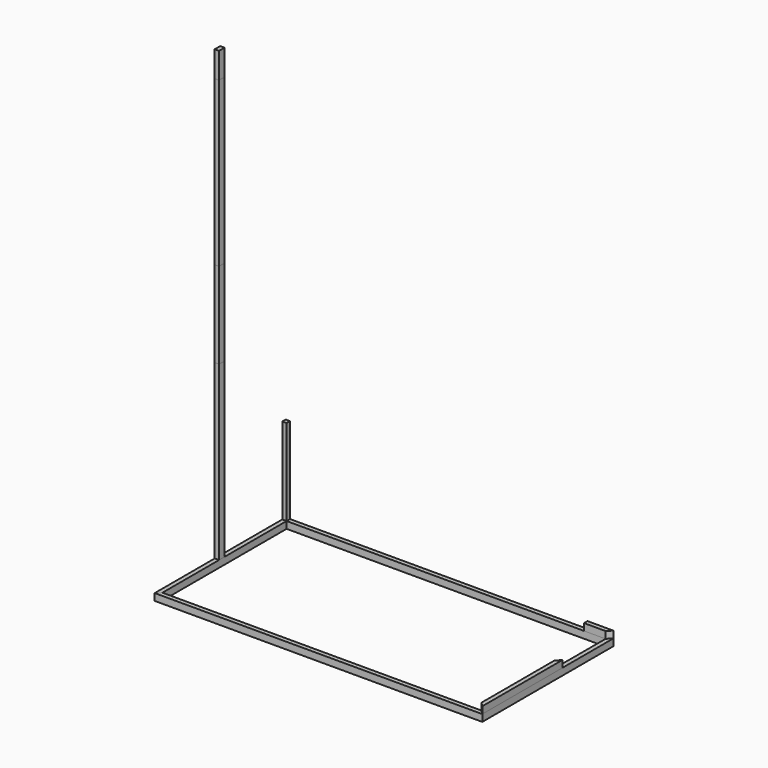
from build123d import *

# Parameters (mm, degrees)
F1_DEPTH  = 80
F2_DEPTH  = 80
F3_DEPTH  = 80
F4_DEPTH  = 80
F5_W      = 50
F5_H      = 2000
F6_DEPTH  = 80
F7_W      = 50
F7_H      = 50
F8_DEPTH  = 1000
F9_DEPTH  = 1000
F10_DEPTH = 1900
F11_DEPTH = 300
F13_DEPTH = 80
F15_DEPTH = 80


with BuildPart() as f1:
    # F0 (on Top) → F1 (new body)
    with BuildSketch(Plane.XY):
        Polygon((1850, 900), (1900, 950), (-1900, 950), (-1850, 900), align=None)
    extrude(amount=F1_DEPTH)


with BuildPart() as f2:
    # F0 (on Top) → F2 (new body)
    with BuildSketch(Plane.XY):
        Polygon((-1850, 900), (-1900, 950), (-1900, -950), (-1850, -900), align=None)
    extrude(amount=F2_DEPTH)


with BuildPart() as f3:
    # F0 (on Top) → F3 (new body)
    with BuildSketch(Plane.XY):
        Polygon((-1900, -950), (1900, -950), (1850, -900), (-1850, -900), align=None)
    extrude(amount=F3_DEPTH)


with BuildPart() as f4:
    # F0 (on Top) → F4 (new body)
    with BuildSketch(Plane.XY):
        Polygon((1900, -950), (1900, 950), (1850, 900), (1850, -900), align=None)
    extrude(amount=F4_DEPTH)


with BuildPart() as f6:
    # F5 (on Front) → F6 (new body)
    with BuildSketch(Plane.XZ):
        with Locations((-1875, 1080)):
            Rectangle(F5_W, F5_H)
    extrude(amount=F6_DEPTH)


with BuildPart() as f8:
    # F7 (on face) → F8 (new body)
    with BuildSketch(Plane.XY.offset(80)):
        with Locations((-1875, 925)):
            Rectangle(F7_W, F7_H)
    extrude(amount=F8_DEPTH)


with BuildPart() as f9:
    # F9 (new): a face of the model
    f9_faces = [f6.part.faces().sort_by_distance(p)[0] for p in [
        (-1875, -40, 2080),
    ]]
    extrude(f9_faces, amount=F9_DEPTH)


with BuildPart() as f10:
    # F10 (new): a face of the model
    f10_faces = [f9.part.faces().sort_by_distance(p)[0] for p in [
        (-1875, -40, 3080),
    ]]
    extrude(f10_faces, amount=F10_DEPTH)


with BuildPart() as f11:
    # F11 (new): a face of the model
    f11_faces = [f10.part.faces().sort_by_distance(p)[0] for p in [
        (-1875, -40, 4980),
    ]]
    extrude(f11_faces, amount=F11_DEPTH)


with BuildPart() as f13:
    # F12 (on face) → F13 (new body)
    with BuildSketch(Plane.XY.offset(80)):
        Polygon((1600, 900), (1850, 900), (1900, 950), (1600, 950), align=None)
    extrude(amount=F13_DEPTH)


with BuildPart() as f15:
    # F14 (on face) → F15 (new body)
    with BuildSketch(Plane.XY.offset(80)):
        Polygon((1850, -900), (1900, -950), (1900, 210), (1850, 160), align=None)
    extrude(amount=F15_DEPTH)


solid = Compound([f1.part, f2.part, f3.part, f4.part, f6.part, f8.part, f9.part, f10.part, f11.part, f13.part, f15.part])
